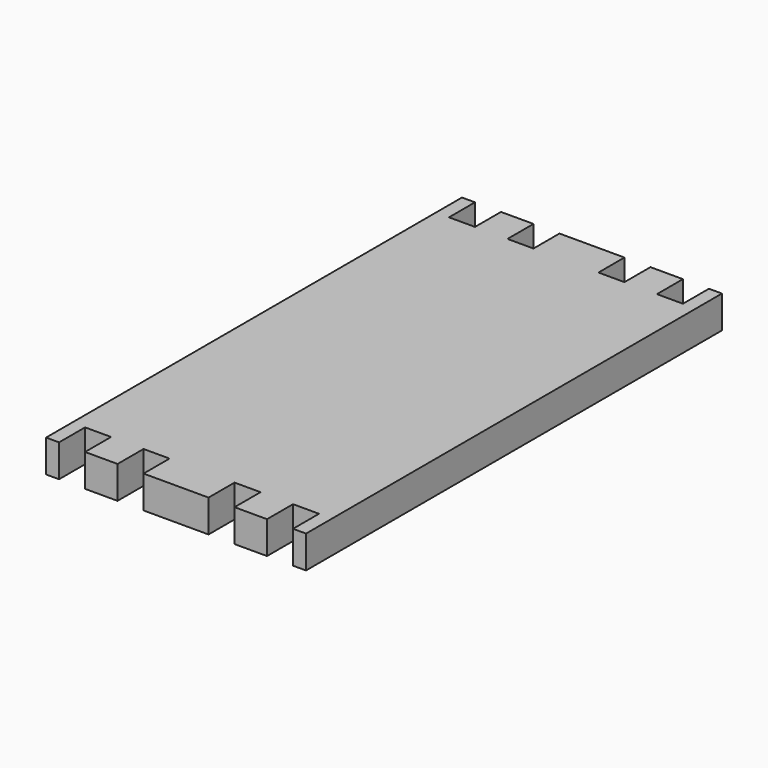
from build123d import *

# Parameters (mm, degrees)
F1_DEPTH = 25


with BuildPart() as f1:
    # F0 (on Top) → F1 (new body)
    with BuildSketch(Plane.XY):
        Polygon((90, -200), (100, -200), (100, -175), (100, 175), (100, 200), (90, 200), (90, 175), (70, 175), (70, 200), (45, 200), (45, 175), (25, 175), (25, 200), (-25, 200), (-25, 175), (-45, 175), (-45, 200), (-70, 200), (-70, 175), (-90, 175), (-90, 200), (-100, 200), (-100, 175), (-100, -175), (-100, -200), (-90, -200), (-90, -175), (-70, -175), (-70, -200), (-45, -200), (-45, -175), (-25, -175), (-25, -200), (25, -200), (25, -175), (45, -175), (45, -200), (70, -200), (70, -175), (90, -175), align=None)
    extrude(amount=F1_DEPTH)


solid = f1.part
